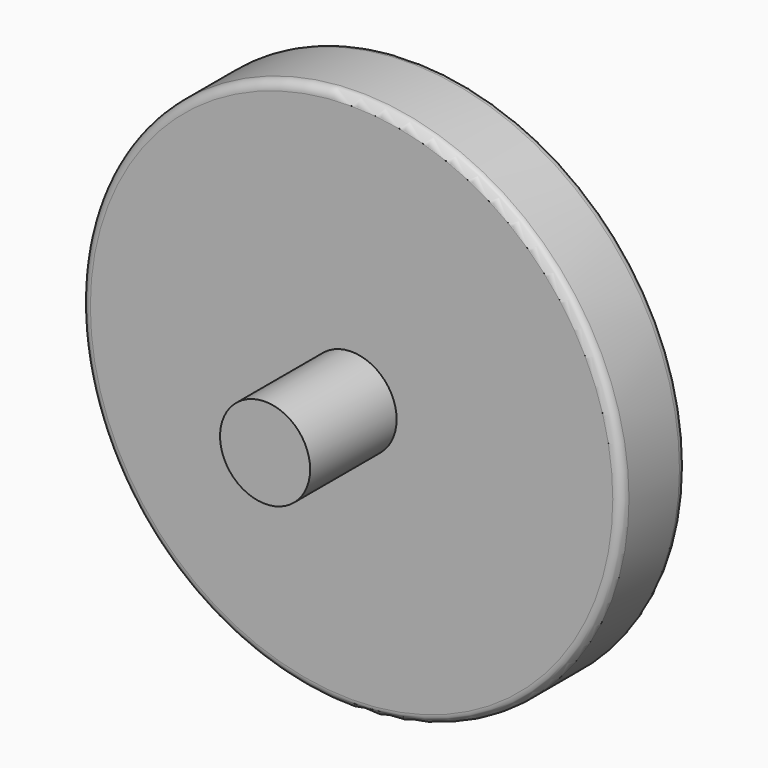
from build123d import *

# Parameters (mm, degrees)
F0_R     = 15
F0_R_2   = 2.5
F1_DEPTH = 2.25
F2_DEPTH = 8.25
F3_R     = 0.5


with BuildPart() as f1:
    # F0 (on Front) → F1 (new body, symmetric)
    with BuildSketch(Plane.XZ):
        Circle(F0_R)
        Circle(F0_R_2, mode=Mode.SUBTRACT)
    extrude(amount=F1_DEPTH, both=True)

    # F0 (on Front) → F2 (join, symmetric)
    with BuildSketch(Plane.XZ):
        Circle(F0_R_2)
    extrude(amount=F2_DEPTH, both=True)

    # F3
    f3_edges = [f1.edges().sort_by_distance(p)[0] for p in [
        (-15, -2.25, 0),
        (-15, 2.25, 0),
    ]]
    fillet(f3_edges, radius=F3_R)


solid = f1.part
